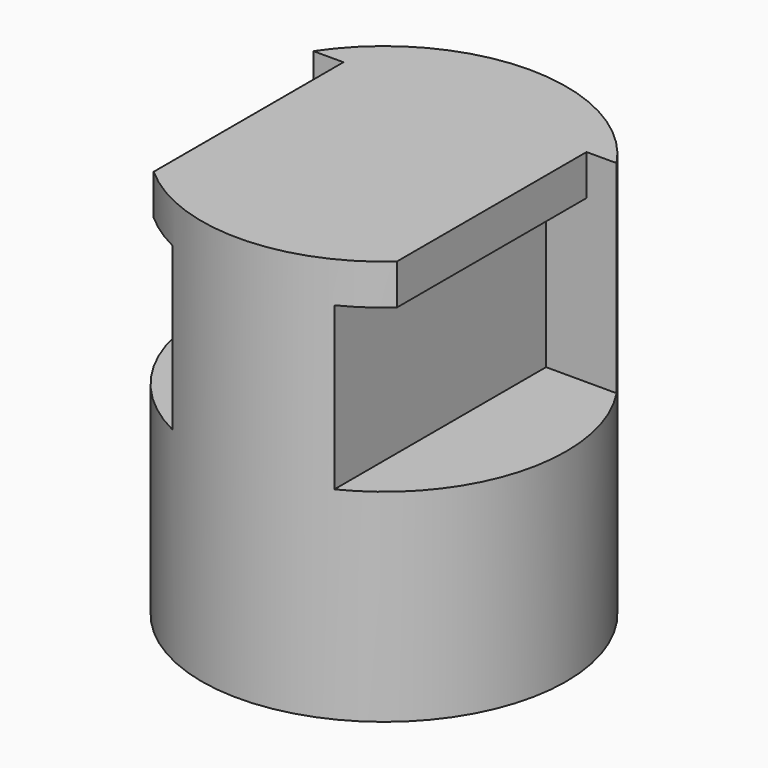
from build123d import *

# Parameters (mm, degrees)
F0_R          = 9
F1_DEPTH      = 20
F3_DEPTH      = 5
F3_DEPTH_BACK = 25


with BuildPart() as f1:
    # F0 (on Top) → F1 (new body)
    with BuildSketch(Plane.XY):
        Circle(F0_R)
    extrude(amount=F1_DEPTH)

    # F2 (on Front) → F3 (cut, two sides)
    with BuildSketch(Plane.XZ) as f3_sk:
        Polygon((6, 18), (4, 18), (4, 10), (9, 10), (9, 20), (6, 20), align=None)
        Polygon((-6, 18), (-6, 20), (-9, 20), (-9, 10), (-4, 10), (-4, 18), align=None)
    extrude(amount=-F3_DEPTH, mode=Mode.SUBTRACT)
    extrude(f3_sk.sketch, amount=F3_DEPTH_BACK, mode=Mode.SUBTRACT)


solid = f1.part
